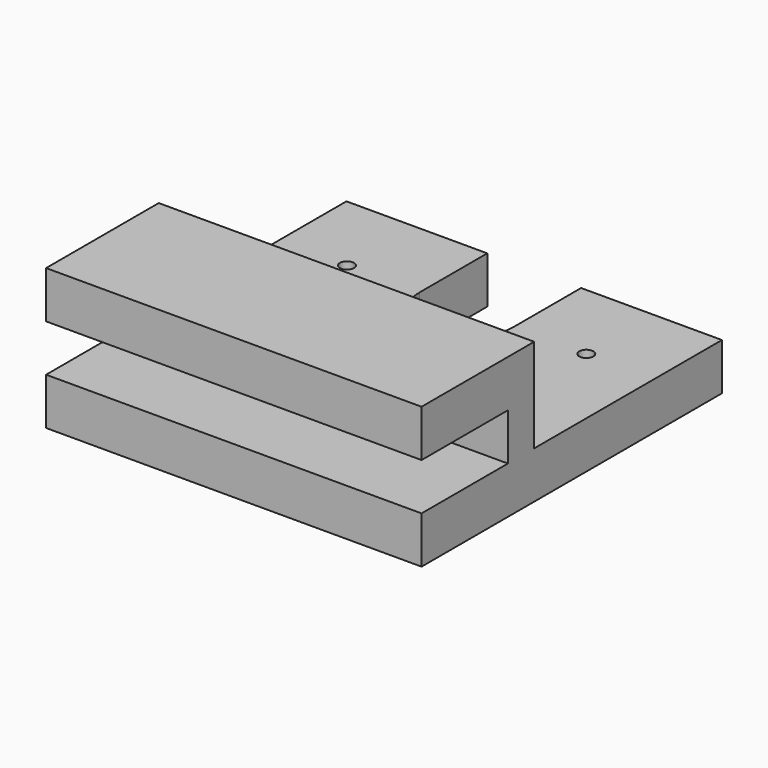
from build123d import *

# Parameters (mm, degrees)
F1_DEPTH = 10
F2_W     = 80
F2_H     = 7
F3_DEPTH = 20
F4_W     = 80
F4_H     = 10
F5_DEPTH = 23
F6_D     = 3
F7_D     = 3
F8_D     = 9
F8_DEPTH = 5
F8_TIP   = 2.7038727856


with BuildPart() as f1:
    # F0 (on Top) → F1 (new body)
    with BuildSketch(Plane.XY):
        with BuildLine():
            Line((-40, -40), (40, -40))
            Line((40, -40), (40, 40))
            Line((40, 40), (10, 40))
            Line((10, 40), (10, 22))
            ThreePointArc((10, 22), (0, 12), (-10, 22))
            Line((-10, 22), (-10, 40))
            Line((-10, 40), (-40, 40))
            Line((-40, 40), (-40, -40))
        make_face()
    extrude(amount=F1_DEPTH)

    # F2 (on face) → F3 (join)
    with BuildSketch(Plane.XY.offset(10)):
        with Locations((0, -13.5)):
            Rectangle(F2_W, F2_H)
    extrude(amount=F3_DEPTH)

    # F4 (on face) → F5 (join)
    with BuildSketch(Plane.XZ.offset(17)):
        with Locations((0, 25)):
            Rectangle(F4_W, F4_H)
    extrude(amount=F5_DEPTH)

    # F6 (through all)
    with Locations(Plane(origin=(0, 0, 0), x_dir=(1, 0, 0), z_dir=(0, 0, -1))):
        with Locations((25.5, -22)):
            Hole(F6_D / 2)

    # F7 (through all)
    with Locations(Plane(origin=(0, 0, 0), x_dir=(1, 0, 0), z_dir=(0, 0, -1))):
        with Locations((-25.5, -22)):
            Hole(F7_D / 2)

    # F8
    with Locations(Plane(origin=(0, 0, 0), x_dir=(1, 0, 0), z_dir=(0, 0, -1))):
        with Locations((18, -22), (-18, -22)):
            Hole(F8_D / 2, depth=F8_DEPTH)
            with Locations((0, 0, -(F8_DEPTH + F8_TIP / 2))):  # 118° drill point
                Cone(0, F8_D / 2, F8_TIP, mode=Mode.SUBTRACT)


solid = f1.part
